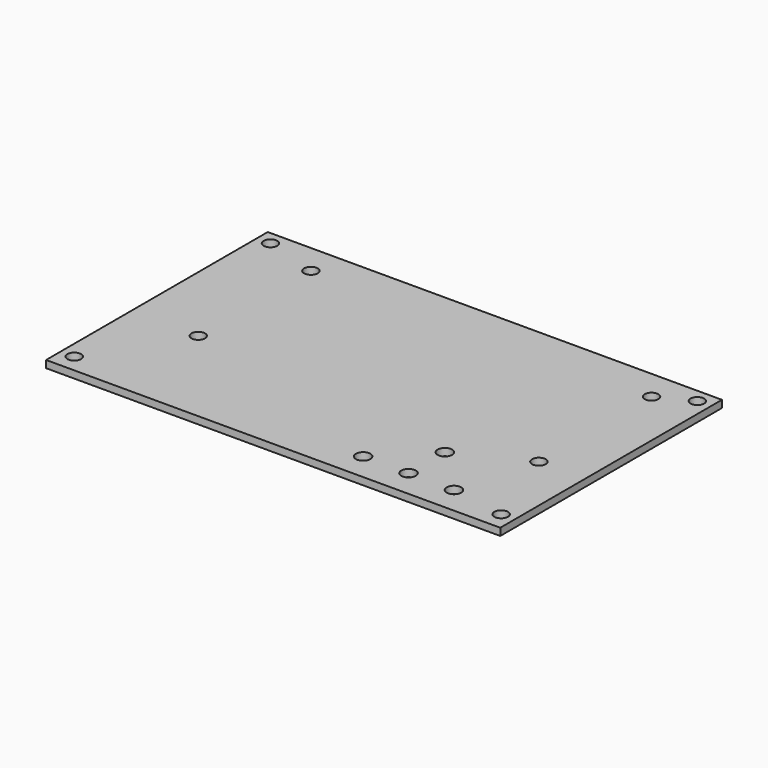
from build123d import *

# Parameters (mm, degrees)
F0_W     = 100
F0_H     = 60
F0_R     = 1.5
F0_R_2   = 1.6
F0_H_2   = 1
F1_DEPTH = 1.6


with BuildPart() as f1:
    # F0 (on Top) → F1 (new body)
    with BuildSketch(Plane.XY):
        Rectangle(F0_W, F0_H)
        with Locations((-47, -27)):
            Circle(F0_R, mode=Mode.SUBTRACT)
        with Locations((-35.175, -7.65)):
            Circle(F0_R, mode=Mode.SUBTRACT)
        with Locations((15, -25)):
            Circle(F0_R_2, mode=Mode.SUBTRACT)
        with Locations((25, -25)):
            Circle(F0_R_2, mode=Mode.SUBTRACT)
        with Locations((35, -25)):
            Circle(F0_R_2, mode=Mode.SUBTRACT)
        with Locations((47, -27)):
            Circle(F0_R, mode=Mode.SUBTRACT)
        with Locations((25, -15)):
            Circle(F0_R_2, mode=Mode.SUBTRACT)
        with Locations((39.825, -7.65)):
            Circle(F0_R, mode=Mode.SUBTRACT)
        with Locations((-47, 27)):
            Circle(F0_R, mode=Mode.SUBTRACT)
        with Locations((-35.175, 23.35)):
            Circle(F0_R, mode=Mode.SUBTRACT)
        with Locations((39.825, 23.35)):
            Circle(F0_R, mode=Mode.SUBTRACT)
        with Locations((47, 27)):
            Circle(F0_R, mode=Mode.SUBTRACT)
        with Locations((0, -30.5)):
            Rectangle(F0_W, F0_H_2)
        Rectangle(F0_W, F0_H)
        with Locations((-47, -27)):
            Circle(F0_R, mode=Mode.SUBTRACT)
        with Locations((-35.175, -7.65)):
            Circle(F0_R, mode=Mode.SUBTRACT)
        with Locations((15, -25)):
            Circle(F0_R_2, mode=Mode.SUBTRACT)
        with Locations((25, -25)):
            Circle(F0_R_2, mode=Mode.SUBTRACT)
        with Locations((35, -25)):
            Circle(F0_R_2, mode=Mode.SUBTRACT)
        with Locations((47, -27)):
            Circle(F0_R, mode=Mode.SUBTRACT)
        with Locations((25, -15)):
            Circle(F0_R_2, mode=Mode.SUBTRACT)
        with Locations((39.825, -7.65)):
            Circle(F0_R, mode=Mode.SUBTRACT)
        with Locations((-47, 27)):
            Circle(F0_R, mode=Mode.SUBTRACT)
        with Locations((-35.175, 23.35)):
            Circle(F0_R, mode=Mode.SUBTRACT)
        with Locations((39.825, 23.35)):
            Circle(F0_R, mode=Mode.SUBTRACT)
        with Locations((47, 27)):
            Circle(F0_R, mode=Mode.SUBTRACT)
    extrude(amount=-F1_DEPTH)


solid = f1.part
